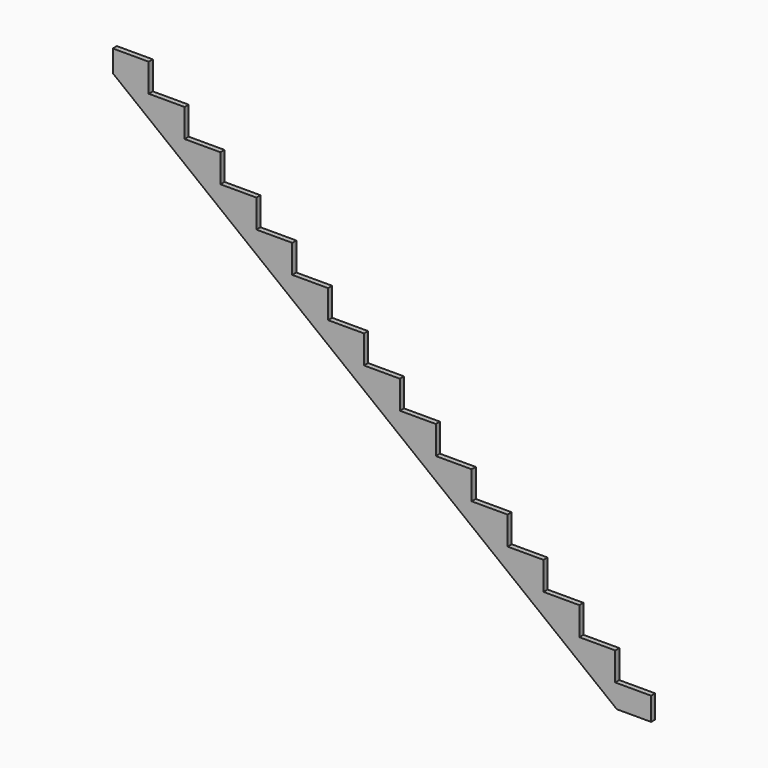
from build123d import *

# Parameters (mm, degrees)
F1_DEPTH = 38.1
F2_SCALE = 0.0114810563


with BuildPart() as f1:
    # F0 (on Front) → F1 (new body)
    with BuildSketch(Plane.XZ):
        Polygon((-254.5811493903, 0), (0, 0), (0, 171.45), (-266.7, 171.45), (-266.7, 381), (-533.4, 381), (-533.4, 590.55), (-800.1, 590.55), (-800.1, 800.1), (-1066.8, 800.1), (-1066.8, 1009.65), (-1333.5, 1009.65), (-1333.5, 1219.2), (-1600.2, 1219.2), (-1600.2, 1428.75), (-1866.9, 1428.75), (-1866.9, 1638.3), (-2133.6, 1638.3), (-2133.6, 1847.85), (-2400.3, 1847.85), (-2400.3, 2057.4), (-2667, 2057.4), (-2667, 2266.95), (-2933.7, 2266.95), (-2933.7, 2476.5), (-3200.4, 2476.5), (-3200.4, 2686.05), (-3467.1, 2686.05), (-3467.1, 2895.6), (-3733.8, 2895.6), (-3733.8, 3105.15), (-4000.5, 3105.15), (-4000.5, 2943.2219540505), align=None)
    extrude(amount=F1_DEPTH)


with BuildPart() as f1_1:
    # F2: moved
    add(f1.part.scale(F2_SCALE))


solid = f1_1.part
